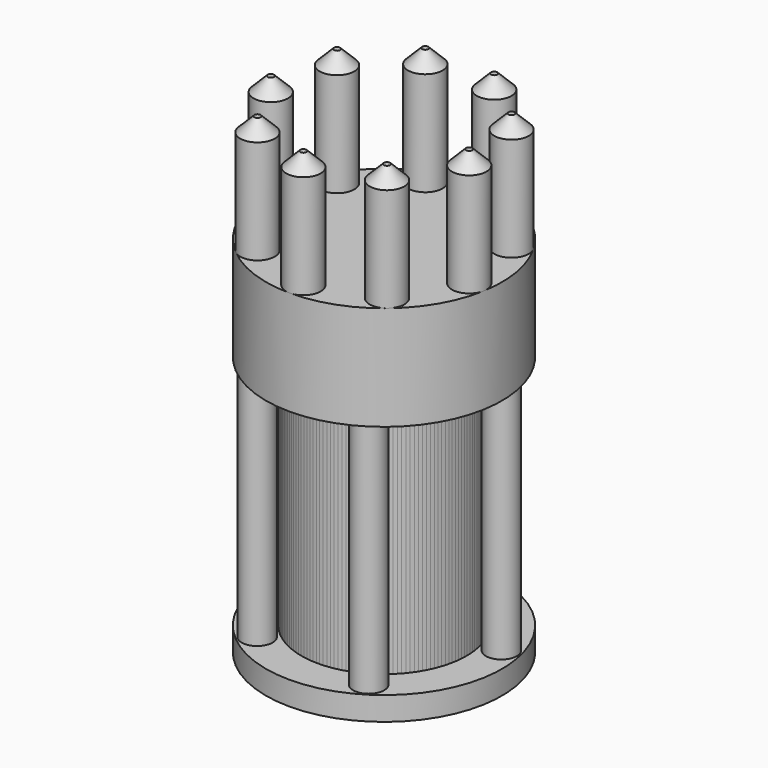
from build123d import *

# Parameters (mm, degrees)
F2_R     = 3.666477
F3_DEPTH = 25
F4_COUNT = 9
F5_R     = 3.280814
F6_DEPTH = 54.2
F7_COUNT = 5
F8_SIZE  = 3
F9_SIZE  = 2
F10_SIZE = 2


with BuildPart() as f1:
    # F0 (on Right) → F1 (revolve)
    with BuildSketch(Plane.YZ):
        Polygon((-25, 0), (0, 0), (0, 77.102801), (-25, 77.102801), (-25, 55), (-17.5, 55), (-17.5, 5), (-25, 5), align=None)
    revolve(axis=Axis((0, 0, 38.5514), (0, 0, -1)))

    # F2 (on face) → F3 (join)
    with BuildSketch(Plane.XY.offset(77.102801)):
        with Locations((0, -21.333523)):
            Circle(F2_R)
    extrude(amount=F3_DEPTH)

    # F8
    f8_edges = [f1.edges().sort_by_distance(p)[0] for p in [
        (-3.666477, -21.333523, 102.102801),
    ]]
    chamfer(f8_edges, length=F8_SIZE)


with BuildPart() as f4_1:
    # F4: instance of F1
    add(f1.part.rotate(Axis((0, 0, 41.294289), (0, 0, -1)), 1 * 360 / F4_COUNT))


with BuildPart() as f4_2:
    # F4: instance of F1
    add(f1.part.rotate(Axis((0, 0, 41.294289), (0, 0, -1)), 2 * 360 / F4_COUNT))


with BuildPart() as f4_3:
    # F4: instance of F1
    add(f1.part.rotate(Axis((0, 0, 41.294289), (0, 0, -1)), 3 * 360 / F4_COUNT))


with BuildPart() as f4_4:
    # F4: instance of F1
    add(f1.part.rotate(Axis((0, 0, 41.294289), (0, 0, -1)), 4 * 360 / F4_COUNT))


with BuildPart() as f4_5:
    # F4: instance of F1
    add(f1.part.rotate(Axis((0, 0, 41.294289), (0, 0, -1)), 5 * 360 / F4_COUNT))


with BuildPart() as f4_6:
    # F4: instance of F1
    add(f1.part.rotate(Axis((0, 0, 41.294289), (0, 0, -1)), 6 * 360 / F4_COUNT))

    # F9
    f9_edges = [f4_6.edges().sort_by_distance(p)[0] for p in [
        (16.06969, 19.151111, 55),
    ]]
    chamfer(f9_edges, length=F9_SIZE)

    # F10
    f10_edges = [f4_6.edges().sort_by_distance(p)[0] for p in [
        (16.06969, 19.151111, 5),
    ]]
    chamfer(f10_edges, length=F10_SIZE)


with BuildPart() as f4_7:
    # F4: instance of F1
    add(f1.part.rotate(Axis((0, 0, 41.294289), (0, 0, -1)), 7 * 360 / F4_COUNT))


with BuildPart() as f4_8:
    # F4: instance of F1
    add(f1.part.rotate(Axis((0, 0, 41.294289), (0, 0, -1)), 8 * 360 / F4_COUNT))


with BuildPart() as f6:
    # F5 (on face) → F6 (new body)
    with BuildSketch(Plane.XY.offset(5)):
        with Locations((20.763487, 5.118259)):
            Circle(F5_R)
    extrude(amount=F6_DEPTH)


with BuildPart() as f7_1:
    # F7: instance of F6
    add(f6.part.rotate(Axis((0, 0, 41.294289), (0, 0, -1)), 1 * 360 / F7_COUNT))


with BuildPart() as f7_2:
    # F7: instance of F6
    add(f6.part.rotate(Axis((0, 0, 41.294289), (0, 0, -1)), 2 * 360 / F7_COUNT))


with BuildPart() as f7_3:
    # F7: instance of F6
    add(f6.part.rotate(Axis((0, 0, 41.294289), (0, 0, -1)), 3 * 360 / F7_COUNT))


with BuildPart() as f7_4:
    # F7: instance of F6
    add(f6.part.rotate(Axis((0, 0, 41.294289), (0, 0, -1)), 4 * 360 / F7_COUNT))


solid = Compound([f1.part, f4_1.part, f4_2.part, f4_3.part, f4_4.part, f4_5.part, f4_6.part, f4_7.part, f4_8.part, f6.part, f7_1.part, f7_2.part, f7_3.part, f7_4.part])
